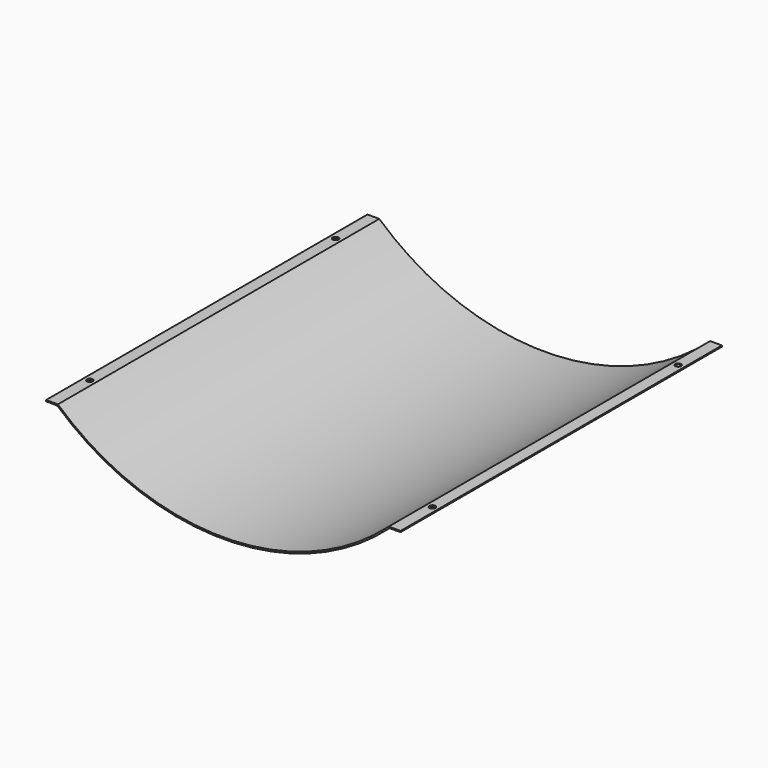
from build123d import *

# Parameters (mm, degrees)
F1_DEPTH = 1727.2
F3_D     = 25.4


with BuildPart() as f1:
    # F0 (on Front) → F1 (new body)
    with BuildSketch(Plane.XZ):
        with BuildLine():
            ThreePointArc((984.9249720573, 381.711602211), (273.7343609535, 109.9693591654), (-437.4750279427, 381.6624527908))
            Line((-437.4750279427, 381.6624527908), (-439.7196343216, 375.7223987336))
            ThreePointArc((-439.7196343228, 375.7223987323), (274.7681137955, 103.0725126754), (988.8462401673, 376.7934143531))
            ThreePointArc((988.8462401673, 376.7934143531), (989.335778578, 377.2329663671), (989.8250467256, 377.672819193))
            Line((989.8250467244, 377.6728191942), (984.9249720573, 381.711602211))
        make_face()
        Polygon((-439.7196343216, 375.7223987336), (-437.4750279427, 381.6624527908), (-488.2750279427, 381.6624527908), (-488.2750279427, 376.7348527908), align=None)
        with BuildLine():
            Line((1035.7249720573, 381.711602211), (984.9249720573, 381.711602211))
            Line((984.9249720573, 381.711602211), (989.8250467244, 377.6728191942))
            ThreePointArc((989.8250467256, 377.672819193), (989.335778578, 377.2329663671), (988.8462401673, 376.7934143531))
            Line((988.8462401662, 376.7934143543), (1035.7249720573, 376.7934143543))
            Line((1035.7249720573, 376.7934143543), (1035.7249720573, 381.711602211))
        make_face()
    extrude(amount=F1_DEPTH)

    # F3 (through all)
    with Locations(Plane(origin=(0, 0, 0), x_dir=(1, 0, 0), z_dir=(0, 0, -1))):
        with Locations((1010.3249720573, 203.2), (1010.3249720573, 1524), (-462.8750279427, 1524), (-462.8750279427, 203.2)):
            Hole(F3_D / 2)


solid = f1.part
